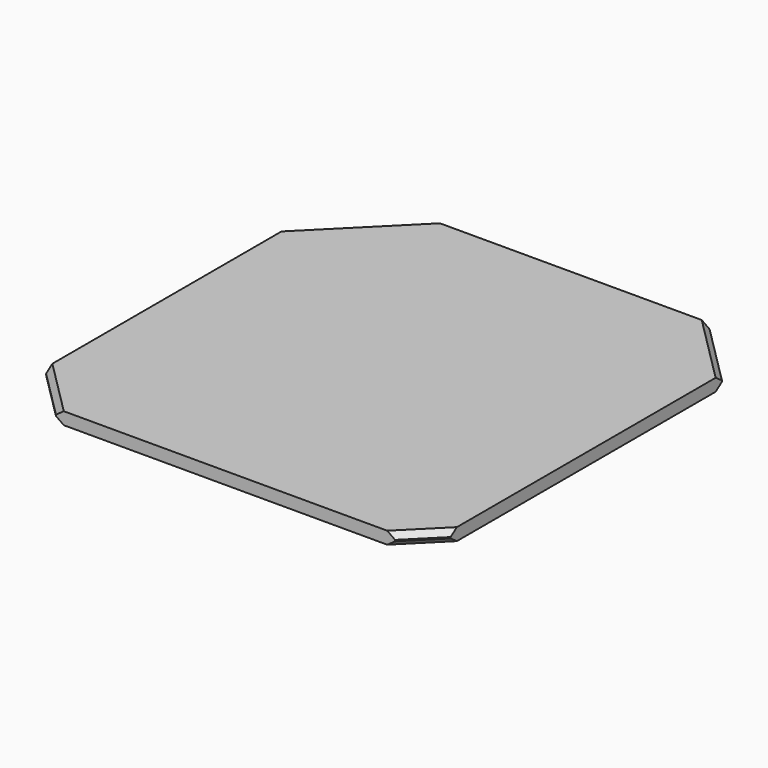
from build123d import *

# Parameters (mm, degrees)
PAD_DEPTH    = 2
CHAMFER_SIZE = 0.9


with BuildPart() as part:
    # Sketch → Pad (new body)
    with BuildSketch(Plane.XY):
        Polygon((-22.5, 37.5), (22.5, 37.5), (32.5, 27.5), (32.5, -27.5), (27.5, -32.5), (-27.5, -32.5), (-35.5, -24.5), (-35.5, 24.5), align=None)
    extrude(amount=PAD_DEPTH)

    # Chamfer
    chamfer_edges = [part.edges().sort_by_distance(p)[0] for p in [
        (-29, 31, 2),
        (27.5, 32.5, 2),
        (30, -30, 2),
        (30, -30, 0),
        (-31.5, -28.5, 2),
        (-31.5, -28.5, 0),
        (27.5, 32.5, 0),
        (-29, 31, 0),
    ]]
    chamfer(chamfer_edges, length=CHAMFER_SIZE)


solid = part.part
